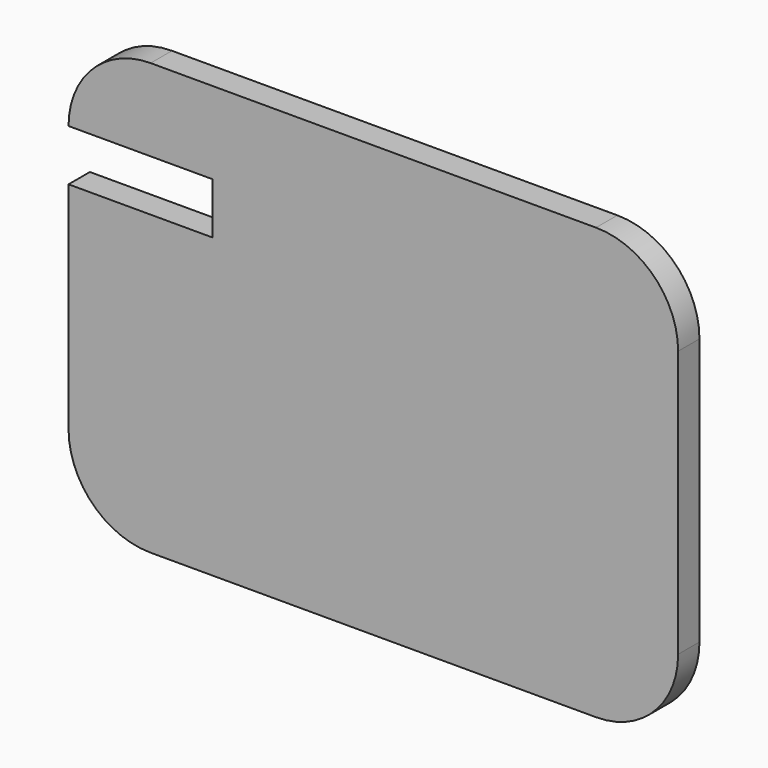
from build123d import *

# Parameters (mm, degrees)
F1_DEPTH = 13
F2_W     = 75
F2_H     = 25
F3_DEPTH = 25


with BuildPart() as f1:
    # F0 (on Front) → F1 (new body)
    with BuildSketch(Plane.XZ):
        with BuildLine():
            Line((145.069164, 99.403447), (-71.930836, 99.403447))
            ThreePointArc((-71.930836, 99.403447), (-100.215108, 87.687718), (-111.930836, 59.403447))
            Line((-111.930836, 59.403447), (-111.930836, -70.596553))
            ThreePointArc((-111.930836, -70.596553), (-100.215108, -98.880824), (-71.930836, -110.596553))
            Line((-71.930836, -110.596553), (145.069164, -110.596553))
            ThreePointArc((145.069164, -110.596553), (173.353435, -98.880824), (185.069164, -70.596553))
            Line((185.069164, -70.596553), (185.069164, 59.403447))
            ThreePointArc((185.069164, 59.403447), (173.353435, 87.687718), (145.069164, 99.403447))
        make_face()
    extrude(amount=F1_DEPTH)

    # F2 (on face) → F3 (cut)
    with BuildSketch(Plane.XZ.offset(13)):
        with Locations((-79.382428, 46.903447)):
            Rectangle(F2_W, F2_H)
    extrude(amount=-F3_DEPTH, mode=Mode.SUBTRACT)


solid = f1.part
